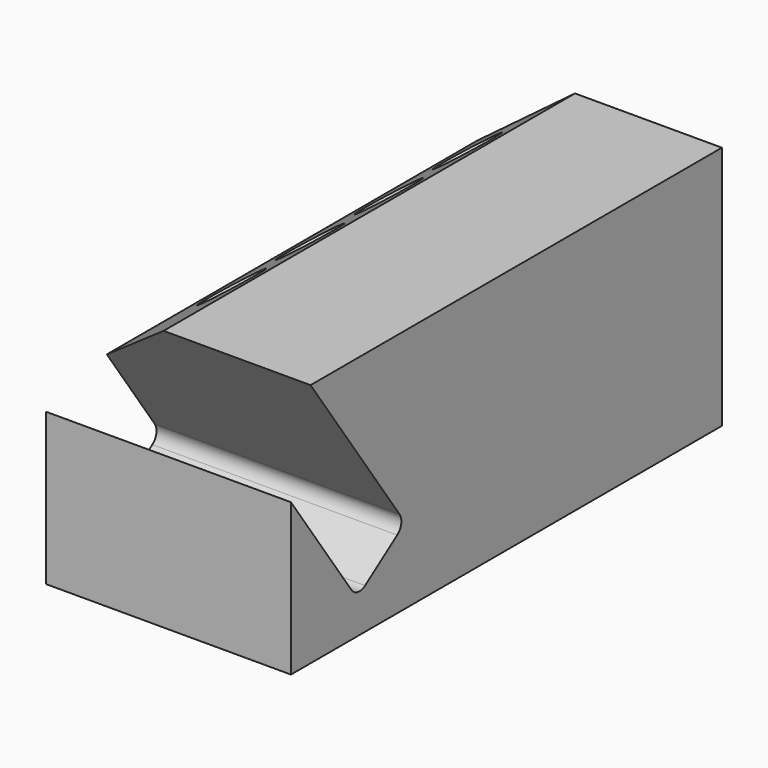
from build123d import *

# Parameters (mm, degrees)
F0_W     = 63.5
F0_H     = 139.7
F1_DEPTH = 63.5
F3_DEPTH = 139.7
F4_R     = 7.9375
F5_DEPTH = 41.275
F6_R     = 3.175
F8_DEPTH = 63.5
F9_R     = 3.175


with BuildPart() as f1:
    # F0 (on Top) → F1 (new body)
    with BuildSketch(Plane.XY):
        Rectangle(F0_W, F0_H)
    extrude(amount=F1_DEPTH)

    # F2 (on face) → F3 (cut, through all)
    with BuildSketch(Plane.XZ.offset(69.85)):
        Polygon((-31.75, 63.5), (-31.75, 44.45), (-6.35, 63.5), align=None)
    extrude(amount=-F3_DEPTH, mode=Mode.SUBTRACT)

    # F4 (on face) → F5 (cut)
    with BuildSketch(Plane(origin=(-32.766, 0, 43.688), x_dir=(0.8, 0, 0.6), z_dir=(-0.6, 0, 0.8))):
        with Locations((17.145, 50.8)):
            Circle(F4_R)
        with Locations((17.05919, 25.400145)):
            Circle(F4_R)
        with Locations((16.973379, 0.00029)):
            Circle(F4_R)
        with Locations((16.887569, -25.399565)):
            Circle(F4_R)
    extrude(amount=-F5_DEPTH, mode=Mode.SUBTRACT)

    # F6
    f6_edges = [f1.edges().sort_by_distance(p)[0] for p in [
        (-0.840945, -25.399565, 16.038041),
        (-0.772297, 0.00029, 16.089528),
        (-0.703648, 25.400145, 16.141014),
        (-0.635, 50.8, 16.1925),
    ]]
    fillet(f6_edges, radius=F6_R)

    # F7 (on face) → F8 (cut, through all)
    with BuildSketch(Plane.YZ.offset(31.75)):
        Polygon((-69.85, 63.5), (-69.85, 39.356078), (-48.414039, 8.742354), (-32.809193, 19.668985), (-63.5, 63.5), align=None)
    extrude(amount=-F8_DEPTH, mode=Mode.SUBTRACT)

    # F9
    f9_edges = [f1.edges().sort_by_distance(p)[0] for p in [
        (0, -32.809193, 19.668985),
        (0, -48.414039, 8.742354),
    ]]
    fillet(f9_edges, radius=F9_R)


solid = f1.part
